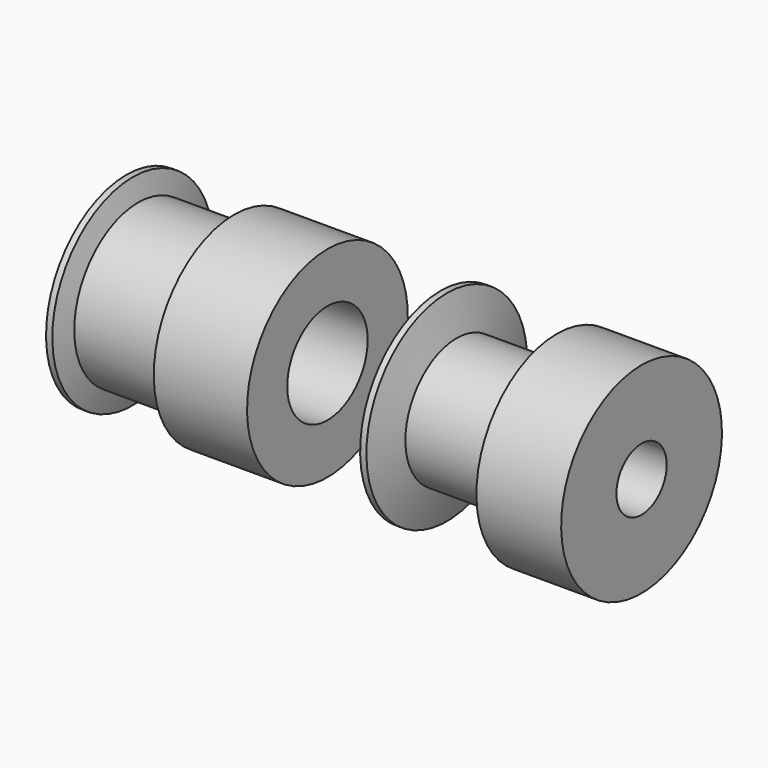
from build123d import *


with BuildPart() as f1:
    # F0 (on Front) → F1 (revolve)
    with BuildSketch(Plane.XZ):
        Polygon((3.638097, 6.365), (-3.561903, 6.365), (-4, 8), (-4.5, 8), (-4.5, 4), (11.5, 4), (11.5, 8), (4.076194, 8), align=None)
    revolve(axis=Axis((20.584276, 0, 0), (1, 0, 0)))


with BuildPart() as f2:
    # F0 (on Front) → F2 (revolve)
    with BuildSketch(Plane.XZ):
        Polygon((20.5, 8), (20.5, 2.5), (36.5, 2.5), (36.5, 8), (29.756785, 8), (28.978392, 5.095), (21.778392, 5.095), (21, 8), align=None)
    revolve(axis=Axis((20.584276, 0, 0), (1, 0, 0)))


solid = Compound([f1.part, f2.part])
